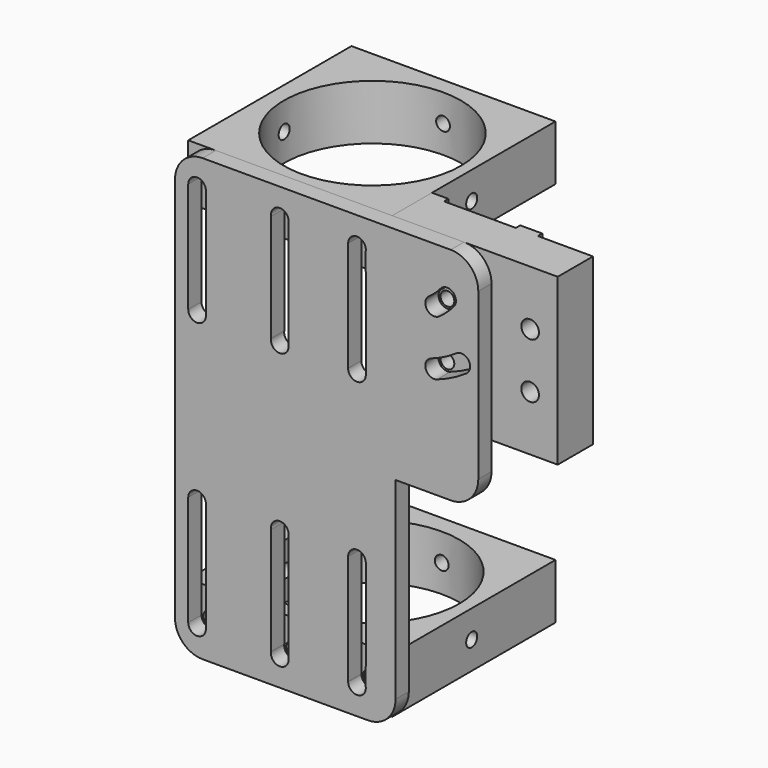
from build123d import *

# Parameters (mm, degrees)
F1_DEPTH   = 30
F2_R       = 1.6
F3_DEPTH   = 25
F4_D       = 2.5
F5_W       = 37
F5_H       = 37
F5_R       = 16.05
F6_DEPTH   = 10
F9_D       = 2.5
F9_ON_F7_D = 2.5
F11_D      = 2.5
F11_DEPTH  = 6
F11_TIP    = 0.7510757738
F14_DEPTH  = 3
F16_W      = 37
F16_H      = 37
F16_R      = 15.75
F17_DEPTH  = 10
F19_D      = 2.5
F19_DEPTH  = 6
F19_TIP    = 0.7510757738
F20_D      = 2.5
F22_D      = 2.5
F23_R      = 5
F24_R      = 5
F25_R      = 5


with BuildPart() as f1:
    # F0 (on Top) → F1 (new body)
    with BuildSketch(Plane.XY):
        Polygon((34, -10), (21, -10), (21, -9), (18, -9), (18, -10), (18, -18), (48, -18), (48, -10), (38, -10), (38, -9), (34, -9), align=None)
    extrude(amount=-F1_DEPTH)

    # F2 (on face) → F3 (cut)
    with BuildSketch(Plane.XZ.offset(18)):
        with Locations((43, -10)):
            Circle(F2_R)
        with Locations((43, -20)):
            Circle(F2_R)
    extrude(amount=-F3_DEPTH, mode=Mode.SUBTRACT)

    # F4 (through all)
    with Locations(Plane.XZ.offset(18)):
        with Locations((28, -10), (28, -20)):
            Hole(F4_D / 2)


with BuildPart() as f6:
    # F5 (on Top) → F6 (new body)
    with BuildSketch(Plane.XY):
        with Locations((-0.5, 0.5)):
            Rectangle(F5_W, F5_H)
        Circle(F5_R, mode=Mode.SUBTRACT)
    extrude(amount=-F6_DEPTH)

    # F9 (through all)
    with Locations(Plane(origin=(0, 19, 0), x_dir=(-1, 0, 0), z_dir=(0, 1, 0))):
        with Locations((0, -5)):
            Hole(F9_D / 2)

    # F9 on F7 (through all)
    with Locations(Plane(origin=(-19, 0, 0), x_dir=(0, -1, 0), z_dir=(-1, 0, 0))):
        with Locations((0, -5)):
            Hole(F9_ON_F7_D / 2)

    # F11
    with Locations(Plane.XZ.offset(18)):
        with Locations((-15, -5), (14, -5)):
            Hole(F11_D / 2, depth=F11_DEPTH)
            with Locations((0, 0, -(F11_DEPTH + F11_TIP / 2))):  # 118° drill point
                Cone(0, F11_D / 2, F11_TIP, mode=Mode.SUBTRACT)


with BuildPart() as f14:
    # F13 (on offset) → F14 (new body)
    with BuildSketch(Plane.XZ.offset(18)):
        Polygon((36, 0), (-19, 0), (-19, -80), (21, -80), (21, -40), (36, -40), align=None)
        with BuildLine():
            ThreePointArc((-13.4008254517, -74.948611634), (-14.9743025024, -76.5997936238), (-16.6, -75))
            Line((-16.6, -75), (-16.6, -55))
            ThreePointArc((-16.6, -55), (-14.9999668968, -53.4000000003), (-13.4000000014, -55.0000662064))
            Line((-13.4000000014, -55.0000662064), (-13.4008254517, -74.948611634))
        make_face(mode=Mode.SUBTRACT)
        with BuildLine():
            Line((1.6, -55.0000101306), (1.5998734951, -74.979880366))
            ThreePointArc((1.5998734951, -74.979880366), (-0.1221809073, -76.5953281248), (-1.5781509312, -74.7364859809))
            Line((-1.5781509312, -74.7364859809), (-1.5781509312, -55.2635140191))
            ThreePointArc((-1.5781509312, -55.2635140191), (-0.1322040856, -53.4054712045), (1.6, -55.0000101306))
        make_face(mode=Mode.SUBTRACT)
        with BuildLine():
            ThreePointArc((15.5883583555, -75.1926596338), (13.9166405534, -76.5978270253), (12.4002167051, -75.0263326662))
            ThreePointArc((12.4002167051, -75.0263326662), (12.4, -75), (12.4002167051, -74.9736673338))
            Line((12.4002167051, -74.9736673338), (12.4002167051, -55.0263326662))
            ThreePointArc((12.4002167051, -55.0263326662), (13.9872944393, -53.4000504481), (15.5999997341, -55.0009224666))
            Line((15.5999997341, -55.0009224666), (15.5885794521, -74.8091720034))
            ThreePointArc((15.5885794521, -74.8091720034), (15.5999997341, -75.0009224666), (15.5883583555, -75.1926596338))
        make_face(mode=Mode.SUBTRACT)
        with BuildLine():
            ThreePointArc((-16.6, -5), (-14.9743025024, -3.4002063762), (-13.4008254517, -5.051388366))
            Line((-13.4008254517, -5.051388366), (-13.4000000014, -24.9999337936))
            ThreePointArc((-13.4000000014, -24.9999337936), (-14.9999668968, -26.5999999997), (-16.6, -25))
            Line((-16.6, -25), (-16.6, -5))
        make_face(mode=Mode.SUBTRACT)
        with BuildLine():
            ThreePointArc((-1.5781509312, -5.2635140191), (-0.1221809073, -3.4046718752), (1.5998734951, -5.020119634))
            Line((1.5998734951, -5.020119634), (1.6, -24.9999898694))
            ThreePointArc((1.6, -24.9999898694), (-0.1322040856, -26.5945287955), (-1.5781509312, -24.7364859809))
            Line((-1.5781509312, -24.7364859809), (-1.5781509312, -5.2635140191))
        make_face(mode=Mode.SUBTRACT)
        with BuildLine():
            ThreePointArc((15.5883583555, -4.8073403662), (15.5999997341, -4.9990775334), (15.5885794521, -5.1908279966))
            Line((15.5885794521, -5.1908279966), (15.5999997341, -24.9990775334))
            ThreePointArc((15.5999997341, -24.9990775334), (13.9872944393, -26.5999495519), (12.4002167051, -24.9736673338))
            Line((12.4002167051, -24.9736673338), (12.4002167051, -5.0263326662))
            ThreePointArc((12.4002167051, -5.0263326662), (12.4, -5), (12.4002167051, -4.9736673338))
            ThreePointArc((12.4002167051, -4.9736673338), (13.9166405534, -3.4021729747), (15.5883583555, -4.8073403662))
        make_face(mode=Mode.SUBTRACT)
        with BuildLine():
            ThreePointArc((28.5165227844, -21.5104387774), (26.4782822452, -20.5278017618), (27.4609192607, -18.4895612226))
            ThreePointArc((27.4609192607, -18.4895612226), (29.819017223, -17.4880612739), (32.0262193555, -16.1873357481))
            ThreePointArc((32.0262193555, -16.1873357481), (34.2493337066, -16.6089547493), (33.8277147054, -18.8320691003))
            ThreePointArc((33.8277147054, -18.8320691003), (31.2598935566, -20.3453108939), (28.5165227844, -21.5104387774))
        make_face(mode=Mode.SUBTRACT)
        with BuildLine():
            ThreePointArc((28.9114032605, -11.3111183889), (26.6832414864, -10.9170433851), (27.0773164902, -8.6888816111))
            ThreePointArc((27.0773164902, -8.6888816111), (28.1594508365, -7.821298044), (29.119084994, -6.8198898989))
            ThreePointArc((29.119084994, -6.8198898989), (31.3733181129, -6.6238464199), (31.569361592, -8.8780795388))
            ThreePointArc((31.569361592, -8.8780795388), (30.3201173219, -10.1817048604), (28.9114032605, -11.3111183889))
        make_face(mode=Mode.SUBTRACT)
    extrude(amount=F14_DEPTH)

    # F23
    f23_edges = [f14.edges().sort_by_distance(p)[0] for p in [
        (36, -19.5, 0),
    ]]
    fillet(f23_edges, radius=F23_R)

    # F24
    f24_edges = [f14.edges().sort_by_distance(p)[0] for p in [
        (-19, -19.5, 0),
        (-19, -19.5, -80),
    ]]
    fillet(f24_edges, radius=F24_R)

    # F25
    f25_edges = [f14.edges().sort_by_distance(p)[0] for p in [
        (36, -19.5, -40),
        (21, -19.5, -80),
    ]]
    fillet(f25_edges, radius=F25_R)


with BuildPart() as f17:
    # F16 (on offset) → F17 (new body)
    with BuildSketch(Plane(origin=(0, 0, -80), x_dir=(1, 0, 0), z_dir=(0, 0, -1))):
        with Locations((-0.5, -0.5)):
            Rectangle(F16_W, F16_H)
        Circle(F16_R, mode=Mode.SUBTRACT)
    extrude(amount=-F17_DEPTH)

    # F19
    with Locations(Plane.XZ.offset(18)):
        with Locations((-15, -75), (14, -75)):
            Hole(F19_D / 2, depth=F19_DEPTH)
            with Locations((0, 0, -(F19_DEPTH + F19_TIP / 2))):  # 118° drill point
                Cone(0, F19_D / 2, F19_TIP, mode=Mode.SUBTRACT)

    # F20 (through all)
    with Locations(Plane.XZ.offset(18)):
        with Locations((0, -75)):
            Hole(F20_D / 2)

    # F22 (through all)
    with Locations(Plane(origin=(-19, 0, 0), x_dir=(0, -1, 0), z_dir=(-1, 0, 0))):
        with Locations((0, -75)):
            Hole(F22_D / 2)


solid = Compound([f1.part, f6.part, f14.part, f17.part])
